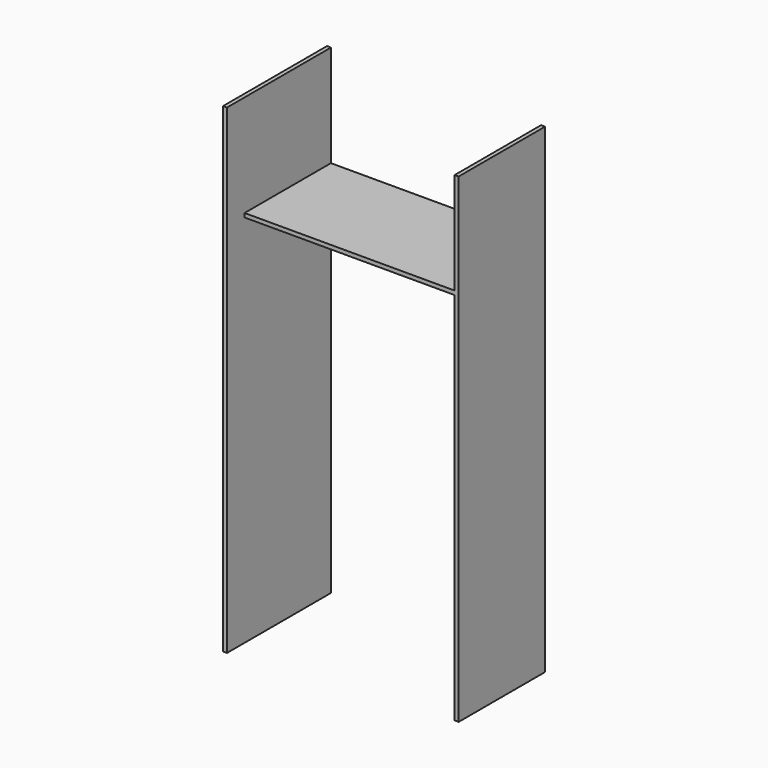
from build123d import *

# Parameters (mm, degrees)
F1_DEPTH = 490
F2_W     = 100
F2_H     = 2180
F3_DEPTH = 18


with BuildPart() as f1:
    # F0 (on Front) → F1 (new body)
    with BuildSketch(Plane.XZ):
        Polygon((0, 2180), (0, 0), (18, 0), (18, 1700), (972, 1700), (972, 0), (990, 0), (990, 2180), (972, 2180), (972, 2162), (972, 1718), (18, 1718), (18, 2162), (18, 2180), align=None)
    extrude(amount=F1_DEPTH)

    # F2 (on face) → F3 (join)
    with BuildSketch(Plane(origin=(0, 0, 0), x_dir=(0, -1, 0), z_dir=(-1, 0, 0))):
        with Locations((540, 1090)):
            Rectangle(F2_W, F2_H)
    extrude(amount=-F3_DEPTH)


solid = f1.part
